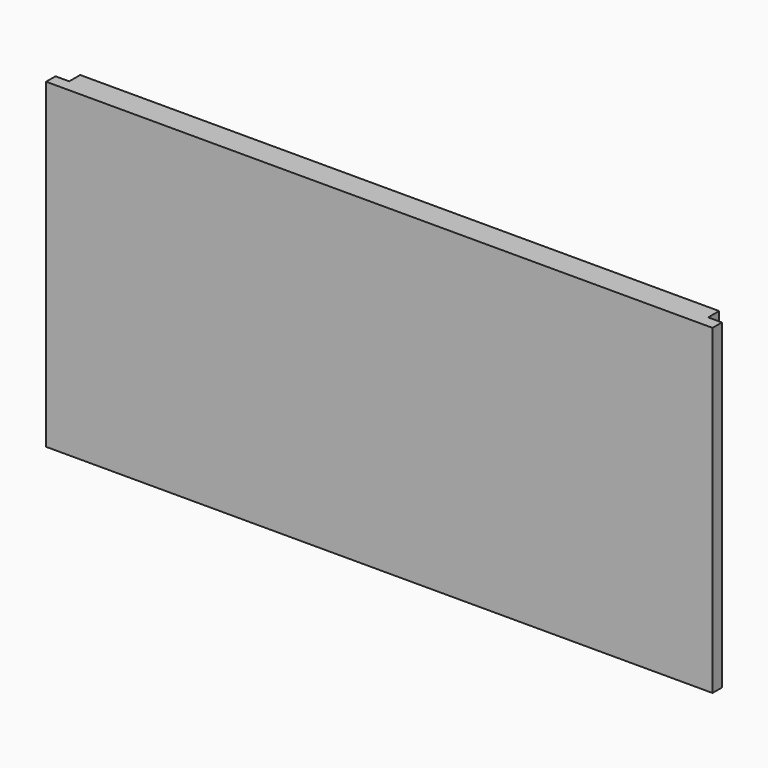
from build123d import *

# Parameters (mm, degrees)
F0_W     = 539.75
F0_H     = 20.6375
F1_DEPTH = 260.35
F2_W     = 11.1125
F2_H     = 11.1125
F3_DEPTH = 260.351
F4_W     = 517.525
F4_H     = 22.225
F5_DEPTH = 11.1125


with BuildPart() as f1:
    # F0 (on Top) → F1 (new body)
    with BuildSketch(Plane.XY):
        with Locations((0, 10.31875)):
            Rectangle(F0_W, F0_H)
    extrude(amount=-F1_DEPTH)

    # F2 (on face) → F3 (cut, through all)
    with BuildSketch(Plane.XY):
        with Locations((-264.31875, 15.08125)):
            Rectangle(F2_W, F2_H)
        with Locations((264.31875, 15.08125)):
            Rectangle(F2_W, F2_H)
    extrude(amount=-F3_DEPTH, mode=Mode.SUBTRACT)

    # F4 (on face) → F5 (cut, through all)
    with BuildSketch(Plane(origin=(0, 20.6375, 0), x_dir=(-1, 0, 0), z_dir=(0, 1, 0))):
        with Locations((0, -20.6375)):
            Rectangle(F4_W, F4_H)
    extrude(amount=-F5_DEPTH, mode=Mode.SUBTRACT)


solid = f1.part
